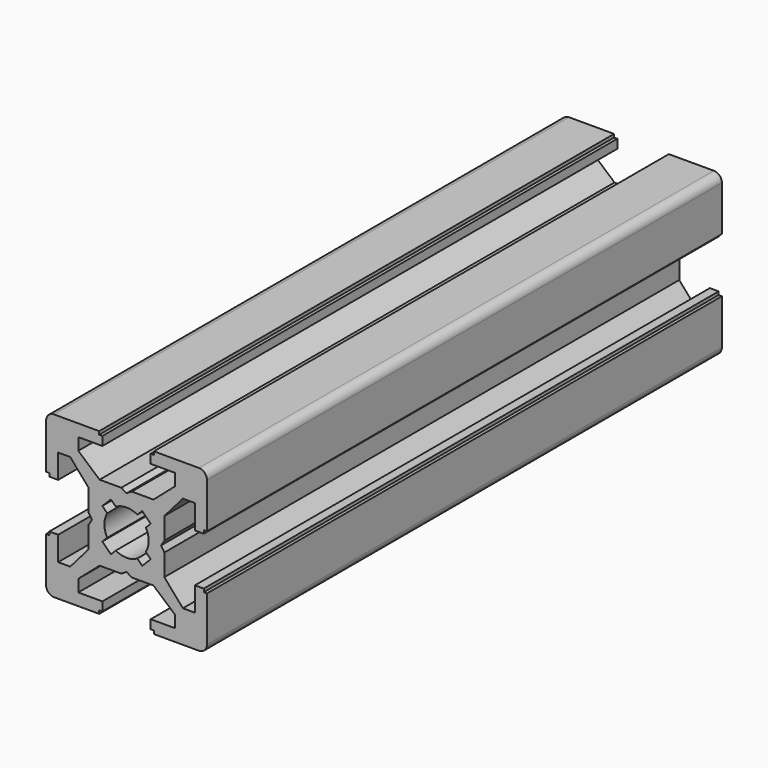
from build123d import *

# Parameters (mm, degrees)
PAD_DEPTH          = 80
POCKET_DEPTH       = 380
POLARPATTERN_COUNT = 4
POCKET001_DEPTH    = 380


with BuildPart() as part:
    # Sketch → Pad (new body)
    with BuildSketch(Plane.XZ):
        with BuildLine():
            Line((-9, 10), (9, 10))
            ThreePointArc((10, 9), (9.707107, 9.707107), (9, 10))
            Line((10, 9), (10, -9))
            ThreePointArc((9, -10), (9.707107, -9.707107), (10, -9))
            Line((9, -10), (-9, -10))
            ThreePointArc((-10, -9), (-9.707107, -9.707107), (-9, -10))
            Line((-10, -9), (-10, 9))
            ThreePointArc((-9, 10), (-9.707107, 9.707107), (-10, 9))
        make_face()
    extrude(amount=PAD_DEPTH)

    # Sketch001 (on Face10 of Pad) → Pocket (cut)
    with BuildSketch(Plane.XZ.offset(80)):
        Polygon((-3.4, 10), (-3.4, 9.6), (-3, 9.6), (-3, 8.5), (-6, 8.5), (-6, 7), (-3.35, 4.7), (-0.65, 4.7), (0, 4.3), (0.65, 4.7), (3.35, 4.7), (6, 7), (6, 8.5), (3, 8.5), (3, 9.6), (3.4, 9.6), (3.4, 10), align=None)
    pocket = extrude(amount=-POCKET_DEPTH, mode=Mode.SUBTRACT)

    # PolarPattern: Pocket ×4 about axis
    polarpattern_axis = Axis((0, -80, 0), (0, -1, 0))
    for i in range(1, POLARPATTERN_COUNT):
        add(pocket.rotate(polarpattern_axis, i * 360 / POLARPATTERN_COUNT), mode=Mode.SUBTRACT)

    # Sketch002 (on Face4 of PolarPattern) → Pocket001 (cut)
    with BuildSketch(Plane.XZ.offset(80)):
        with BuildLine():
            ThreePointArc((1.340499, 2.401159), (0, 2.75), (-1.340499, 2.401159))
            Line((-1.944544, 3.005204), (-1.340499, 2.401159))
            Line((-3.005204, 1.944544), (-1.944544, 3.005204))
            Line((-2.401159, 1.340499), (-3.005204, 1.944544))
            ThreePointArc((-2.401159, 1.340499), (-2.75, 0), (-2.401159, -1.340499))
            Line((-3.005204, -1.944544), (-2.401159, -1.340499))
            Line((-1.944544, -3.005204), (-3.005204, -1.944544))
            Line((-1.340499, -2.401159), (-1.944544, -3.005204))
            ThreePointArc((-1.340499, -2.401159), (0, -2.75), (1.340499, -2.401159))
            Line((1.944544, -3.005204), (1.340499, -2.401159))
            Line((3.005204, -1.944544), (1.944544, -3.005204))
            Line((2.401159, -1.340499), (3.005204, -1.944544))
            ThreePointArc((2.401159, -1.340499), (2.75, 0), (2.401159, 1.340499))
            Line((2.401159, 1.340499), (3.005204, 1.944544))
            Line((3.005204, 1.944544), (1.944544, 3.005204))
            Line((1.944544, 3.005204), (1.340499, 2.401159))
        make_face()
    extrude(amount=-POCKET001_DEPTH, mode=Mode.SUBTRACT)


solid = part.part
